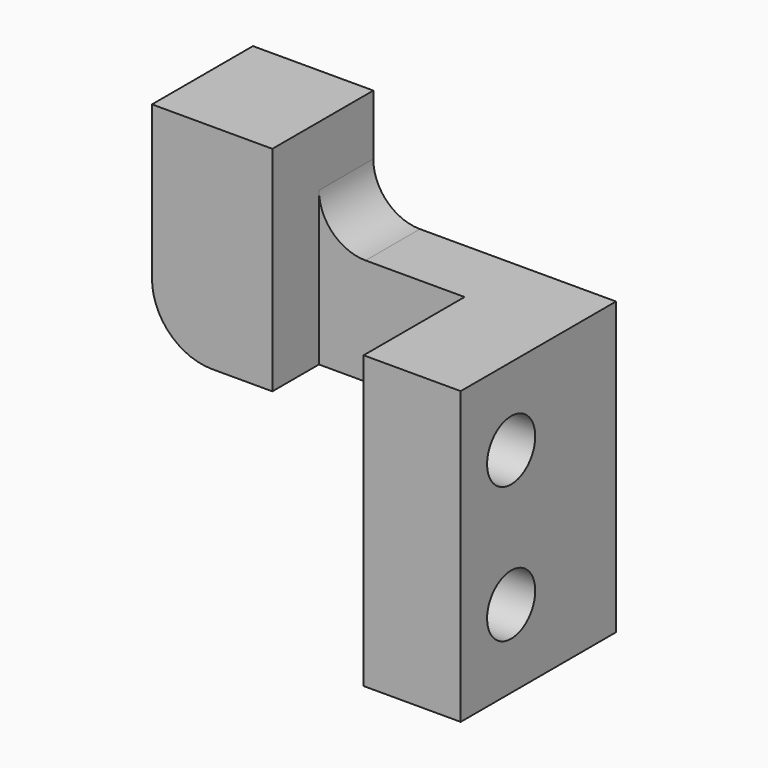
from build123d import *

# Parameters (mm, degrees)
SKETCH_R     = 2.2
PAD_DEPTH    = 3.5
SKETCH001_W  = 15
SKETCH001_H  = 6.5
SKETCH001_R  = 1.55
PAD001_DEPTH = 5
SKETCH002_W  = 5.5
SKETCH002_H  = 5.5
POCKET_DEPTH = 2
PAD002_DEPTH = 3


with BuildPart() as part:
    # Sketch → Pad (new body)
    with BuildSketch(Plane.XZ):
        with BuildLine():
            Line((10.6, -8.5), (10.6, -15))
            Line((10.6, -15), (15.6, -15))
            Line((15.6, -15), (15.6, 0))
            Line((5.5, 0), (15.6, 0))
            ThreePointArc((3.1, 2.4), (3.802944, 0.702944), (5.5, 0))
            Line((3.1, 5.5), (3.1, 2.4))
            Line((-3.1, 5.5), (3.1, 5.5))
            Line((-3.1, -2.4), (-3.1, 5.5))
            ThreePointArc((-3.1, -2.4), (-2.192031, -4.592031), (0, -5.5))
            Line((7.6, -5.5), (0, -5.5))
            ThreePointArc((10.6, -8.5), (9.72132, -6.37868), (7.6, -5.5))
        make_face()
        with Locations((0, 2.4)):
            Circle(SKETCH_R, mode=Mode.SUBTRACT)
        with Locations((0, -2.4)):
            Circle(SKETCH_R, mode=Mode.SUBTRACT)
    extrude(amount=PAD_DEPTH)

    # Sketch001 (on Face4 of Pad) → Pad001 (join)
    with BuildSketch(Plane(origin=(15.6, 0, 0), x_dir=(0, 0, 1), z_dir=(1, 0, 0))):
        with Locations((-7.5, 6.75)):
            Rectangle(SKETCH001_W, SKETCH001_H)
        with Locations((-4, 6.75)):
            Circle(SKETCH001_R, mode=Mode.SUBTRACT)
        with Locations((-11, 6.75)):
            Circle(SKETCH001_R, mode=Mode.SUBTRACT)
    extrude(amount=-PAD001_DEPTH)

    # Sketch002 (on Face12 of Pad001) → Pocket (cut)
    with BuildSketch(Plane(origin=(10.6, 0, 0), x_dir=(0, 0, -1), z_dir=(-1, 0, 0))):
        with Locations((4, 6.75)):
            Rectangle(SKETCH002_W, SKETCH002_H)
        with Locations((11, 6.75)):
            Rectangle(SKETCH002_W, SKETCH002_H)
    extrude(amount=-POCKET_DEPTH, mode=Mode.SUBTRACT)

    # Sketch003 (on Face5 of Pocket) → Pad002 (join)
    with BuildSketch(Plane.XZ.offset(3.5)):
        with BuildLine():
            Line((-3.1, 5.5), (3.1, 5.5))
            Line((3.1, 5.5), (3.1, -5.5))
            Line((3.1, -5.5), (0, -5.5))
            ThreePointArc((-3.1, -2.4), (-2.192031, -4.592031), (0, -5.5))
            Line((-3.1, -2.4), (-3.1, 5.5))
        make_face()
    extrude(amount=PAD002_DEPTH)


solid = part.part
